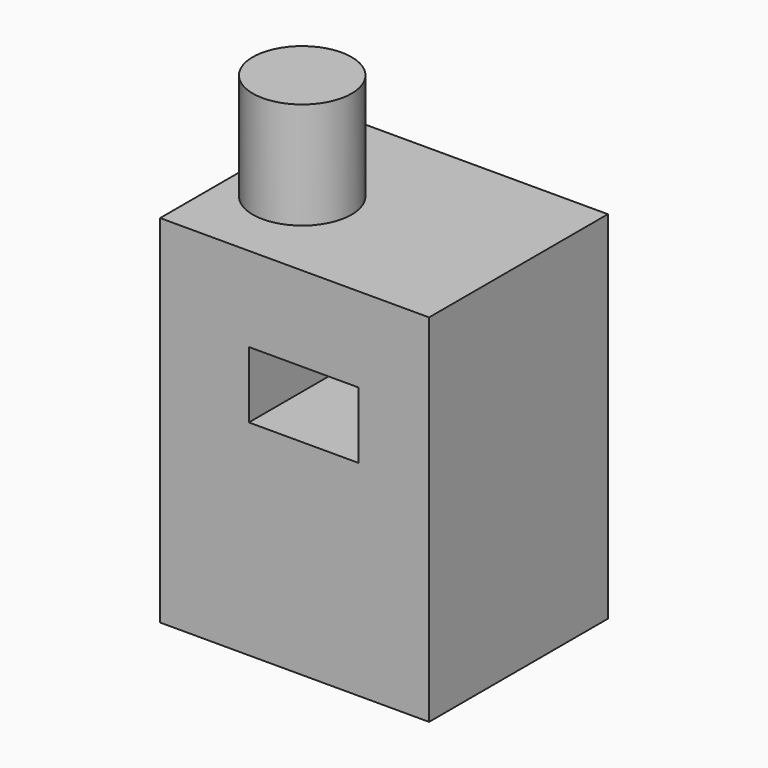
from build123d import *

# Parameters (mm, degrees)
F0_W     = 64.068158
F0_H     = 53.239739
F1_DEPTH = 84.836
F2_R     = 11.771363
F3_DEPTH = 25.4
F4_W     = 26.12557
F4_H     = 15.822526
F5_DEPTH = 82.55


with BuildPart() as f1:
    # F0 (on Top) → F1 (new body)
    with BuildSketch(Plane.XY):
        with Locations((-5.113421, 3.308685)):
            Rectangle(F0_W, F0_H)
    extrude(amount=F1_DEPTH)

    # F2 (on face) → F3 (join)
    with BuildSketch(Plane.XY.offset(84.836)):
        with Locations((-21.954449, 0)):
            Circle(F2_R)
    extrude(amount=F3_DEPTH)

    # F4 (on face) → F5 (cut)
    with BuildSketch(Plane.XZ.offset(23.311185)):
        with Locations((-2.943726, 56.758301)):
            Rectangle(F4_W, F4_H)
    extrude(amount=-F5_DEPTH, mode=Mode.SUBTRACT)


solid = f1.part
